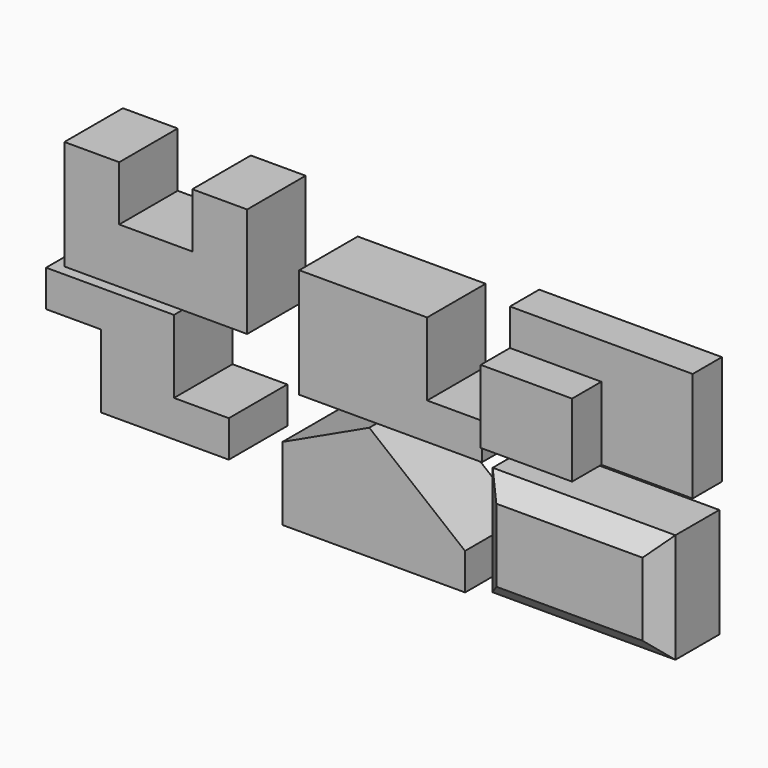
from build123d import *

# Parameters (mm, degrees)
F2_DEPTH  = 101.6
F1_W      = 254
F1_H      = 152.4
F3_DEPTH  = 50.8
F4_W      = 127
F4_H      = 101.6
F5_DEPTH  = 50.8
F7_DEPTH  = 101.6
F9_DEPTH  = 101.6
F11_DEPTH = 101.6
F12_W     = 254
F12_H     = 152.4
F13_DEPTH = 101.6
F14_SIZE  = 25.4


with BuildPart() as f2:
    # F0 (on Front) → F2 (new body)
    with BuildSketch(Plane.XZ):
        Polygon((-437.505946, 0), (-183.505946, 0), (-183.505946, 152.4), (-259.705946, 152.4), (-259.705946, 76.2), (-361.305946, 76.2), (-361.305946, 152.4), (-437.505946, 152.4), align=None)
    extrude(amount=-F2_DEPTH)


with BuildPart() as f3:
    # F1 (on Front) → F3 (new body)
    with BuildSketch(Plane.XZ):
        with Locations((308.784947, 76.286642)):
            Rectangle(F1_W, F1_H)
    extrude(amount=-F3_DEPTH)

    # F4 (on face) → F5 (join)
    with BuildSketch(Plane.XZ):
        with Locations((245.284947, 50.886642)):
            Rectangle(F4_W, F4_H)
    extrude(amount=F5_DEPTH)


with BuildPart() as f7:
    # F6 (on Front) → F7 (new body)
    with BuildSketch(Plane.XZ):
        Polygon((66.700504, 101.6), (-111.099496, 101.6), (-111.099496, -50.8), (142.900504, -50.8), (142.900504, 0), (66.700504, 0), align=None)
    extrude(amount=-F7_DEPTH)


with BuildPart() as f9:
    # F8 (on face) → F9 (new body)
    with BuildSketch(Plane.XZ):
        Polygon((-462.98905, -9.693869), (-462.98905, -60.493869), (-386.78905, -60.493869), (-386.78905, -162.093869), (-208.98905, -162.093869), (-208.98905, -111.293869), (-285.18905, -111.293869), (-285.18905, -9.693869), align=None)
    extrude(amount=-F9_DEPTH)


with BuildPart() as f11:
    # F10 (on Front) → F11 (new body)
    with BuildSketch(Plane.XZ):
        Polygon((-134.530437, -116.137765), (-134.530437, -217.737765), (119.469563, -217.737765), (119.361652, -166.937879), (-13.717981, -59.473646), align=None)
    extrude(amount=-F11_DEPTH)


with BuildPart() as f13:
    # F12 (on Front) → F13 (new body)
    with BuildSketch(Plane.XZ):
        with Locations((264.472376, -145.784959)):
            Rectangle(F12_W, F12_H)
    extrude(amount=-F13_DEPTH)

    # F14
    f14_edges = [f13.edges().sort_by_distance(p)[0] for p in [
        (264.472376, 0, -69.584959),
        (137.472376, 0, -145.784959),
        (264.472376, 0, -221.984959),
        (391.472376, 0, -145.784959),
    ]]
    chamfer(f14_edges, length=F14_SIZE)


solid = Compound([f2.part, f3.part, f7.part, f9.part, f11.part, f13.part])
